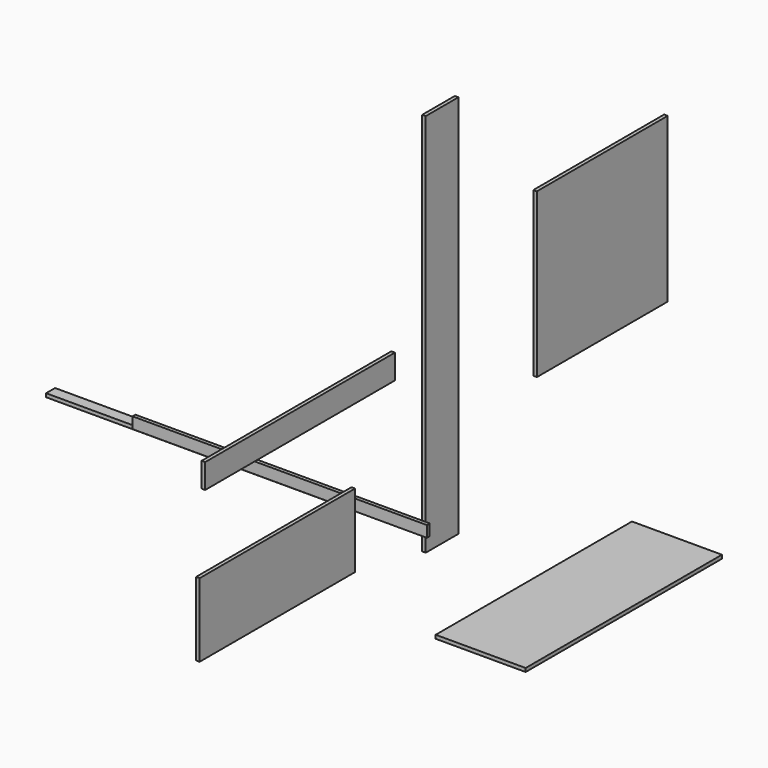
from build123d import *

# Parameters (mm, degrees)
F0_W      = 127
F0_H      = 1193.8
F1_DEPTH  = 11.1125
F2_W      = 603.25
F2_H      = 228.6
F3_DEPTH  = 11.1125
F4_W      = 736.6
F4_H      = 76.2
F5_DEPTH  = 11.1125
F6_W      = 279.4
F6_H      = 762
F7_DEPTH  = 11.1125
F8_W      = 508
F8_H      = 508
F9_DEPTH  = 11.1125
F10_W     = 914.4
F10_H     = 34.925
F11_DEPTH = 11.0998
F12_W     = 914.4
F12_H     = 34.925
F13_DEPTH = 11.1125


with BuildPart() as f1:
    # F0 (on Right) → F1 (new body)
    with BuildSketch(Plane.YZ):
        with Locations((81.913734, 606.106866)):
            Rectangle(F0_W, F0_H)
    extrude(amount=F1_DEPTH)


with BuildPart() as f3:
    # F2 (on Right) → F3 (new body)
    with BuildSketch(Plane.YZ):
        with Locations((-557.466345, 182.097936)):
            Rectangle(F2_W, F2_H)
    extrude(amount=F3_DEPTH)


with BuildPart() as f5:
    # F4 (on Right) → F5 (new body)
    with BuildSketch(Plane.YZ):
        with Locations((-469.52059, 566.964861)):
            Rectangle(F4_W, F4_H)
    extrude(amount=F5_DEPTH)


with BuildPart() as f7:
    # F6 (on Top) → F7 (new body)
    with BuildSketch(Plane.XY):
        with Locations((441.051517, 75.390953)):
            Rectangle(F6_W, F6_H)
    extrude(amount=F7_DEPTH)


with BuildPart() as f9:
    # F8 (on Right) → F9 (new body)
    with BuildSketch(Plane.YZ):
        with Locations((703.921897, 567.958079)):
            Rectangle(F8_W, F8_H)
    extrude(amount=F9_DEPTH)


with BuildPart() as f11:
    # F10 (on Front) → F11 (new body)
    with BuildSketch(Plane.XZ):
        with Locations((-418.784669, 88.371277)):
            Rectangle(F10_W, F10_H)
    extrude(amount=F11_DEPTH)


with BuildPart() as f13:
    # F12 (on Top) → F13 (new body)
    with BuildSketch(Plane.XY):
        with Locations((-771.867216, 112.303123)):
            Rectangle(F12_W, F12_H)
    extrude(amount=F13_DEPTH)


solid = Compound([f1.part, f3.part, f5.part, f7.part, f9.part, f11.part, f13.part])
